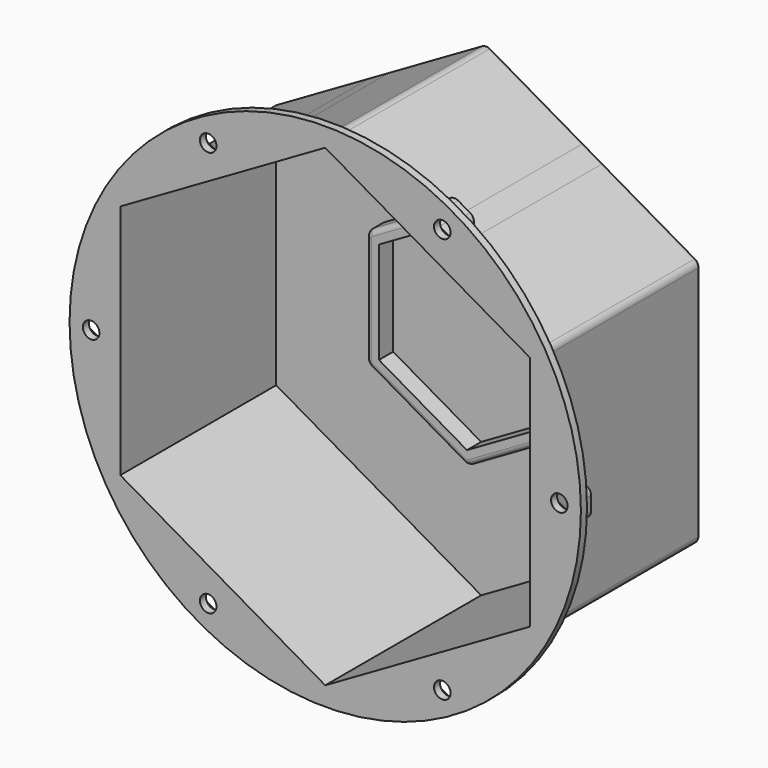
from build123d import *

# Parameters (mm, degrees)
F1_DEPTH = 3
F2_DEPTH = 10
F3_DEPTH = 79.8
F4_START = 76.8
F0_R     = 100.75
F4_DEPTH = 3
F5_R     = 2
F6_START = 73.8
F0_W     = 0.8
F0_H     = 8.8911941455
F6_DEPTH = 6
F7_D     = 6.5278
F9_R     = 1


with BuildPart() as f1:
    # F0 (on Front) → F1 (new body)
    with BuildSketch(Plane.XZ):
        Polygon((0, -93.2420684741), (80.75, -46.6210342371), (80.75, 46.6210342371), (0, 93.2420684741), (-80.75, 46.6210342371), (-80.75, -46.6210342371), align=None)
        with BuildLine():
            ThreePointArc((39.664, -21.1679702696), (39.2620762114, -22.6679702696), (38.164, -23.7660464809))
            Line((38.164, -23.7660464809), (1.5, -44.9340167505))
            ThreePointArc((1.5, -44.9340167505), (0, -45.3359405391), (-1.5, -44.9340167505))
            Line((-1.5, -44.9340167505), (-38.164, -23.7660464809))
            ThreePointArc((-38.164, -23.7660464809), (-39.2620762114, -22.6679702696), (-39.664, -21.1679702696))
            Line((-39.664, -21.1679702696), (-39.664, 21.1679702696))
            ThreePointArc((-39.664, 21.1679702696), (-39.2620762114, 22.6679702696), (-38.164, 23.7660464809))
            Line((-38.164, 23.7660464809), (-1.5, 44.9340167505))
            ThreePointArc((-1.5, 44.9340167505), (0, 45.3359405391), (1.5, 44.9340167505))
            Line((1.5, 44.9340167505), (38.164, 23.7660464809))
            ThreePointArc((38.164, 23.7660464809), (39.2620762114, 22.6679702696), (39.664, 21.1679702696))
            Line((39.664, 21.1679702696), (39.664, -21.1679702696))
        make_face(mode=Mode.SUBTRACT)
    extrude(amount=F1_DEPTH)



with BuildPart() as f1b:
    # F0 (on Front) → F1, piece 2 (new body)
    with BuildSketch(Plane.XZ):
        Polygon((0, -40.0265394624), (34.664, -20.0132697312), (34.664, 20.0132697312), (0, 40.0265394624), (-34.664, 20.0132697312), (-34.664, -20.0132697312), align=None)
    extrude(amount=F1_DEPTH)


with BuildPart() as f1_1:
    add(f1.part)

    add(f1b.part)  # F2 merges F1b
    # F0 (on Front) → F2 (join)
    with BuildSketch(Plane.XZ):
        with BuildLine():
            Line((1.5, -44.9340167505), (38.164, -23.7660464809))
            ThreePointArc((38.164, -23.7660464809), (39.2620762114, -22.6679702696), (39.664, -21.1679702696))
            Line((39.664, -21.1679702696), (39.664, 21.1679702696))
            ThreePointArc((39.664, 21.1679702696), (39.2620762114, 22.6679702696), (38.164, 23.7660464809))
            Line((38.164, 23.7660464809), (1.5, 44.9340167505))
            ThreePointArc((1.5, 44.9340167505), (0, 45.3359405391), (-1.5, 44.9340167505))
            Line((-1.5, 44.9340167505), (-38.164, 23.7660464809))
            ThreePointArc((-38.164, 23.7660464809), (-39.2620762114, 22.6679702696), (-39.664, 21.1679702696))
            Line((-39.664, 21.1679702696), (-39.664, -21.1679702696))
            ThreePointArc((-39.664, -21.1679702696), (-39.2620762114, -22.6679702696), (-38.164, -23.7660464809))
            Line((-38.164, -23.7660464809), (-1.5, -44.9340167505))
            ThreePointArc((-1.5, -44.9340167505), (0, -45.3359405391), (1.5, -44.9340167505))
        make_face()
        Polygon((34.664, 20.0132697312), (34.664, -20.0132697312), (0, -40.0265394624), (-34.664, -20.0132697312), (-34.664, 20.0132697312), (0, 40.0265394624), align=None, mode=Mode.SUBTRACT)
    extrude(amount=F2_DEPTH)

    # F0 (on Front) → F3 (join)
    with BuildSketch(Plane.XZ):
        with BuildLine():
            Line((83.75, 4.4455970728), (83.75, 46.6210342371))
            ThreePointArc((83.75, 46.6210342371), (83.3480762114, 48.1210342371), (82.25, 49.2191104484))
            Line((82.25, 49.2191104484), (45.725, 70.3068290306))
            Line((45.725, 70.3068290306), (38.025, 74.7524261033))
            Line((38.025, 74.7524261033), (1.5, 95.8401446855))
            ThreePointArc((1.5, 95.8401446855), (0, 96.2420684741), (-1.5, 95.8401446855))
            Line((-1.5, 95.8401446855), (-38.025, 74.7524261033))
            Line((-38.025, 74.7524261033), (-45.725, 70.3068290306))
            Line((-45.725, 70.3068290306), (-82.25, 49.2191104484))
            ThreePointArc((-82.25, 49.2191104484), (-83.3480762114, 48.1210342371), (-83.75, 46.6210342371))
            Line((-83.75, 46.6210342371), (-83.75, 4.1800841187))
            Line((-83.75, 4.1800841187), (-83.75, -3.9581455377))
            Line((-83.75, -3.9581455377), (-83.75, -46.6210342371))
            ThreePointArc((-83.75, -46.6210342371), (-83.3480762114, -48.1210342371), (-82.25, -49.2191104484))
            Line((-82.25, -49.2191104484), (-45.7833874392, -70.2731190268))
            Line((-45.7833874392, -70.2731190268), (-38.0831462279, -74.718855363))
            Line((-38.0831462279, -74.718855363), (-1.5, -95.8401446855))
            ThreePointArc((-1.5, -95.8401446855), (0, -96.2420684741), (1.5, -95.8401446855))
            Line((1.5, -95.8401446855), (38.1444882108, -74.6834395526))
            Line((38.1444882108, -74.6834395526), (45.8568599601, -70.2306996471))
            Line((45.8568599601, -70.2306996471), (82.25, -49.2191104484))
            ThreePointArc((82.25, -49.2191104484), (83.3480762114, -48.1210342371), (83.75, -46.6210342371))
            Line((83.75, -46.6210342371), (83.75, -4.4455970728))
            Line((83.75, -4.4455970728), (83.75, 4.4455970728))
        make_face()
        Polygon((80.75, 46.6210342371), (80.75, -46.6210342371), (0, -93.2420684741), (-80.75, -46.6210342371), (-80.75, 46.6210342371), (0, 93.2420684741), align=None, mode=Mode.SUBTRACT)
    extrude(amount=F3_DEPTH)

    # F0 (on Front) → F4 (join)
    with BuildSketch(Plane.XZ.offset(F4_START)):
        Circle(F0_R)
        with BuildLine():
            ThreePointArc((82.25, 49.2191104484), (83.3480762114, 48.1210342371), (83.75, 46.6210342371))
            Line((83.75, 46.6210342371), (83.75, 4.4455970728))
            Line((83.75, 4.4455970728), (84.55, 4.4455970728))
            Line((84.55, 4.4455970728), (90.75, 8.0251687417))
            ThreePointArc((90.75, 8.0251687417), (92.25, 8.4270925304), (93.75, 8.0251687417))
            Line((93.75, 8.0251687417), (98.45, 5.3116224765))
            ThreePointArc((98.45, 5.3116224765), (99.5480762114, 4.2135462652), (99.95, 2.7135462652))
            Line((99.95, 2.7135462652), (99.95, -2.7135462652))
            ThreePointArc((99.95, -2.7135462652), (99.5480762114, -4.2135462652), (98.45, -5.3116224765))
            Line((98.45, -5.3116224765), (93.75, -8.0251687417))
            ThreePointArc((93.75, -8.0251687417), (92.25, -8.4270925304), (90.75, -8.0251687417))
            Line((90.75, -8.0251687417), (84.55, -4.4455970728))
            Line((84.55, -4.4455970728), (83.75, -4.4455970728))
            Line((83.75, -4.4455970728), (83.75, -46.6210342371))
            ThreePointArc((83.75, -46.6210342371), (83.3480762114, -48.1210342371), (82.25, -49.2191104484))
            Line((82.25, -49.2191104484), (45.8568599601, -70.2306996471))
            Line((45.8568599601, -70.2306996471), (46.2835018729, -71.0010622594))
            Line((46.2835018729, -71.0010622594), (52.4187041842, -74.6905914884))
            ThreePointArc((52.4187041842, -74.6905914884), (53.4970306734, -75.8080684299), (53.8721503359, -77.3149950939))
            Line((53.8721503359, -77.3149950939), (53.7754024395, -82.7412252012))
            ThreePointArc((53.7754024395, -82.7412252012), (53.3468022646, -84.2338218051), (52.2293253232, -85.3121482943))
            Line((52.2293253232, -85.3121482943), (47.4816982552, -87.9414772119))
            ThreePointArc((47.4816982552, -87.9414772119), (45.9747715912, -88.3165968744), (44.4821749873, -87.8879966995))
            Line((44.4821749873, -87.8879966995), (39.8312958158, -85.0910955098))
            ThreePointArc((39.8312958158, -85.0910955098), (38.7529693266, -83.9736185684), (38.3778496641, -82.4666919043))
            Line((38.3778496641, -82.4666919043), (38.5054745488, -75.3086862308))
            Line((38.5054745488, -75.3086862308), (38.1444882108, -74.6834395526))
            Line((38.1444882108, -74.6834395526), (1.5, -95.8401446855))
            ThreePointArc((1.5, -95.8401446855), (0, -96.2420684741), (-1.5, -95.8401446855))
            Line((-1.5, -95.8401446855), (-38.0831462279, -74.718855363))
            Line((-38.0831462279, -74.718855363), (-38.460428699, -75.3844391559))
            Line((-38.460428699, -75.3844391559), (-38.4037631222, -82.5433582325))
            ThreePointArc((-38.4037631222, -82.5433582325), (-38.79380162, -84.0464925253), (-39.8831520139, -85.1532257593))
            Line((-39.8831520139, -85.1532257593), (-44.5615267041, -87.9038881506))
            ThreePointArc((-44.5615267041, -87.9038881506), (-46.0582984359, -88.3176720495), (-47.5614327287, -87.9276335517))
            Line((-47.5614327287, -87.9276335517), (-52.2827635819, -85.2513734172))
            ThreePointArc((-52.2827635819, -85.2513734172), (-53.3894968159, -84.1620230233), (-53.8032807148, -82.6652512916))
            Line((-53.8032807148, -82.6652512916), (-53.8462368778, -77.2383287657))
            ThreePointArc((-53.8462368778, -77.2383287657), (-53.45619838, -75.7351944729), (-52.3668479861, -74.628461239))
            Line((-52.3668479861, -74.628461239), (-46.1953749905, -70.9999278717))
            Line((-46.1953749905, -70.9999278717), (-45.7833874392, -70.2731190268))
            Line((-45.7833874392, -70.2731190268), (-82.25, -49.2191104484))
            ThreePointArc((-82.25, -49.2191104484), (-83.3480762114, -48.1210342371), (-83.75, -46.6210342371))
            Line((-83.75, -46.6210342371), (-83.75, -3.9581455377))
            Line((-83.75, -3.9581455377), (-85.1501733085, -3.9764250951))
            Line((-85.1501733085, -3.9764250951), (-90.6552047962, -7.2513100663))
            ThreePointArc((-90.6552047962, -7.2513100663), (-92.149830231, -7.6727807551), (-93.654949171, -7.290472361))
            Line((-93.654949171, -7.290472361), (-97.7324211262, -5.0067881935))
            ThreePointArc((-97.7324211262, -5.0067881935), (-98.844738167, -3.9231399422), (-99.2662088558, -2.4285145074))
            Line((-99.2662088558, -2.4285145074), (-99.3272163301, 2.2445218728))
            ThreePointArc((-99.3272163301, 2.2445218728), (-98.9449079361, 3.7496408129), (-97.8612596847, 4.8619578537))
            Line((-97.8612596847, 4.8619578537), (-93.8447952038, 7.2513100663))
            ThreePointArc((-93.8447952038, 7.2513100663), (-92.350169769, 7.6727807551), (-90.845050829, 7.290472361))
            Line((-90.845050829, 7.290472361), (-85.2564015056, 4.1604177297))
            Line((-85.2564015056, 4.1604177297), (-83.75, 4.1800841187))
            Line((-83.75, 4.1800841187), (-83.75, 46.6210342371))
            ThreePointArc((-83.75, 46.6210342371), (-83.3480762114, 48.1210342371), (-82.25, 49.2191104484))
            Line((-82.25, 49.2191104484), (-45.725, 70.3068290306))
            Line((-45.725, 70.3068290306), (-46.125, 70.9996493536))
            Line((-46.125, 70.9996493536), (-52.325, 74.5792210226))
            ThreePointArc((-52.325, 74.5792210226), (-53.4230762114, 75.6772972339), (-53.825, 77.1772972339))
            Line((-53.825, 77.1772972339), (-53.825, 82.6043897643))
            ThreePointArc((-53.825, 82.6043897643), (-53.4230762114, 84.1043897643), (-52.325, 85.2024659757))
            Line((-52.325, 85.2024659757), (-47.625, 87.9160122409))
            ThreePointArc((-47.625, 87.9160122409), (-46.125, 88.3179360295), (-44.625, 87.9160122409))
            Line((-44.625, 87.9160122409), (-39.925, 85.2024659757))
            ThreePointArc((-39.925, 85.2024659757), (-38.8269237886, 84.1043897643), (-38.425, 82.6043897643))
            Line((-38.425, 82.6043897643), (-38.425, 75.4452464264))
            Line((-38.425, 75.4452464264), (-38.025, 74.7524261033))
            Line((-38.025, 74.7524261033), (-1.5, 95.8401446855))
            ThreePointArc((-1.5, 95.8401446855), (0, 96.2420684741), (1.5, 95.8401446855))
            Line((1.5, 95.8401446855), (38.025, 74.7524261033))
            Line((38.025, 74.7524261033), (38.425, 75.4452464264))
            Line((38.425, 75.4452464264), (38.425, 82.6043897643))
            ThreePointArc((38.425, 82.6043897643), (38.8269237886, 84.1043897643), (39.925, 85.2024659757))
            Line((39.925, 85.2024659757), (44.625, 87.9160122409))
            ThreePointArc((44.625, 87.9160122409), (46.125, 88.3179360295), (47.625, 87.9160122409))
            Line((47.625, 87.9160122409), (52.325, 85.2024659757))
            ThreePointArc((52.325, 85.2024659757), (53.4230762114, 84.1043897643), (53.825, 82.6043897643))
            Line((53.825, 82.6043897643), (53.825, 77.1772972339))
            ThreePointArc((53.825, 77.1772972339), (53.4230762114, 75.6772972339), (52.325, 74.5792210226))
            Line((52.325, 74.5792210226), (46.125, 70.9996493536))
            Line((46.125, 70.9996493536), (45.725, 70.3068290306))
            Line((45.725, 70.3068290306), (82.25, 49.2191104484))
        make_face(mode=Mode.SUBTRACT)
    extrude(amount=F4_DEPTH)

    # F5
    f5_edges = [f1_1.edges().sort_by_distance(p)[0] for p in [
        (19.832, -10, 34.350032),
    ]]
    fillet(f5_edges, radius=F5_R)



with BuildPart() as f4:
    # F0 (on Front) → F4, piece 2 (new body)
    with BuildSketch(Plane.XZ.offset(F4_START)):
        Polygon((-46.2600288495, 73.3104356691), (-40.4937140766, 76.4837011702), (-40.3586852272, 83.0641090003), (-45.9899711505, 86.4712513292), (-51.7562859234, 83.297985828), (-51.8913147728, 76.717577998), align=None)
    extrude(amount=F4_DEPTH)


with BuildPart() as f4b:
    # F0 (on Front) → F4, piece 3 (new body)
    with BuildSketch(Plane.XZ.offset(F4_START)):
        Polygon((51.825, 76.5999469647), (51.825, 83.1817400335), (46.125, 86.4726365679), (40.425, 83.1817400335), (40.425, 76.5999469647), (46.125, 73.3090504304), align=None)
    extrude(amount=F4_DEPTH)


with BuildPart() as f4c:
    # F0 (on Front) → F4, piece 4 (new body)
    with BuildSketch(Plane.XZ.offset(F4_START)):
        Polygon((92.25, -6.5817930688), (97.95, -3.2908965344), (97.95, 3.2908965344), (92.25, 6.5817930688), (86.55, 3.2908965344), (86.55, -3.2908965344), align=None)
    extrude(amount=F4_DEPTH)


with BuildPart() as f4d:
    # F0 (on Front) → F4, piece 5 (new body)
    with BuildSketch(Plane.XZ.offset(F4_START)):
        Polygon((46.0076674448, -86.4715906506), (51.7654279314, -83.2828300484), (51.8827604867, -76.7020828969), (46.2423325552, -73.3100963477), (40.4845720686, -76.4988569499), (40.3672395133, -83.0796041013), align=None)
    extrude(amount=F4_DEPTH)


with BuildPart() as f4e:
    # F0 (on Front) → F4, piece 6 (new body)
    with BuildSketch(Plane.XZ.offset(F4_START)):
        Polygon((-46.0729042278, -86.4724303921), (-40.3991306673, -83.1365206835), (-40.4512264395, -76.5549337905), (-46.1770957722, -73.3092566061), (-51.8508693327, -76.6451663147), (-51.7987735605, -83.2267532078), align=None)
    extrude(amount=F4_DEPTH)


with BuildPart() as f4f:
    # F0 (on Front) → F4, piece 7 (new body)
    with BuildSketch(Plane.XZ.offset(F4_START)):
        Polygon((-92.1640806267, -6.5812322449), (-86.5075260011, -3.2162077625), (-86.5934453744, 3.3650244824), (-92.3359193733, 6.5812322449), (-97.9924739989, 3.2162077625), (-97.9065546256, -3.3650244824), align=None)
    extrude(amount=F4_DEPTH)


with BuildPart() as f1_2:
    add(f1_1.part)

    add(f4.part)  # F6 merges F4

    add(f4b.part)  # F6 merges F4b

    add(f4c.part)  # F6 merges F4c

    add(f4d.part)  # F6 merges F4d

    add(f4e.part)  # F6 merges F4e

    add(f4f.part)  # F6 merges F4f
    # F0 (on Front) → F6 (join)
    with BuildSketch(Plane.XZ.offset(F6_START)):
        with BuildLine():
            Line((-46.125, 70.9996493536), (-38.425, 75.4452464264))
            Line((-38.425, 75.4452464264), (-38.425, 82.6043897643))
            ThreePointArc((-38.425, 82.6043897643), (-38.8269237886, 84.1043897643), (-39.925, 85.2024659757))
            Line((-39.925, 85.2024659757), (-44.625, 87.9160122409))
            ThreePointArc((-44.625, 87.9160122409), (-46.125, 88.3179360295), (-47.625, 87.9160122409))
            Line((-47.625, 87.9160122409), (-52.325, 85.2024659757))
            ThreePointArc((-52.325, 85.2024659757), (-53.4230762114, 84.1043897643), (-53.825, 82.6043897643))
            Line((-53.825, 82.6043897643), (-53.825, 77.1772972339))
            ThreePointArc((-53.825, 77.1772972339), (-53.4230762114, 75.6772972339), (-52.325, 74.5792210226))
            Line((-52.325, 74.5792210226), (-46.125, 70.9996493536))
        make_face()
        Polygon((-40.3586852272, 83.0641090003), (-40.4937140766, 76.4837011702), (-46.2600288495, 73.3104356691), (-51.8913147728, 76.717577998), (-51.7562859234, 83.297985828), (-45.9899711505, 86.4712513292), align=None, mode=Mode.SUBTRACT)
        Polygon((-45.725, 70.3068290306), (-38.025, 74.7524261033), (-38.425, 75.4452464264), (-46.125, 70.9996493536), align=None)
        with BuildLine():
            Line((38.425, 75.4452464264), (46.125, 70.9996493536))
            Line((46.125, 70.9996493536), (52.325, 74.5792210226))
            ThreePointArc((52.325, 74.5792210226), (53.4230762114, 75.6772972339), (53.825, 77.1772972339))
            Line((53.825, 77.1772972339), (53.825, 82.6043897643))
            ThreePointArc((53.825, 82.6043897643), (53.4230762114, 84.1043897643), (52.325, 85.2024659757))
            Line((52.325, 85.2024659757), (47.625, 87.9160122409))
            ThreePointArc((47.625, 87.9160122409), (46.125, 88.3179360295), (44.625, 87.9160122409))
            Line((44.625, 87.9160122409), (39.925, 85.2024659757))
            ThreePointArc((39.925, 85.2024659757), (38.8269237886, 84.1043897643), (38.425, 82.6043897643))
            Line((38.425, 82.6043897643), (38.425, 75.4452464264))
        make_face()
        Polygon((46.125, 86.4726365679), (51.825, 83.1817400335), (51.825, 76.5999469647), (46.125, 73.3090504304), (40.425, 76.5999469647), (40.425, 83.1817400335), align=None, mode=Mode.SUBTRACT)
        Polygon((38.025, 74.7524261033), (45.725, 70.3068290306), (46.125, 70.9996493536), (38.425, 75.4452464264), align=None)
        with BuildLine():
            Line((90.75, 8.0251687417), (84.55, 4.4455970728))
            Line((84.55, 4.4455970728), (84.55, -4.4455970728))
            Line((84.55, -4.4455970728), (90.75, -8.0251687417))
            ThreePointArc((90.75, -8.0251687417), (92.25, -8.4270925304), (93.75, -8.0251687417))
            Line((93.75, -8.0251687417), (98.45, -5.3116224765))
            ThreePointArc((98.45, -5.3116224765), (99.5480762114, -4.2135462652), (99.95, -2.7135462652))
            Line((99.95, -2.7135462652), (99.95, 2.7135462652))
            ThreePointArc((99.95, 2.7135462652), (99.5480762114, 4.2135462652), (98.45, 5.3116224765))
            Line((98.45, 5.3116224765), (93.75, 8.0251687417))
            ThreePointArc((93.75, 8.0251687417), (92.25, 8.4270925304), (90.75, 8.0251687417))
        make_face()
        Polygon((97.95, 3.2908965344), (97.95, -3.2908965344), (92.25, -6.5817930688), (86.55, -3.2908965344), (86.55, 3.2908965344), (92.25, 6.5817930688), align=None, mode=Mode.SUBTRACT)
        with Locations((84.15, 0)):
            Rectangle(F0_W, F0_H)
        with BuildLine():
            Line((52.4187041842, -74.6905914884), (46.2835018729, -71.0010622594))
            Line((46.2835018729, -71.0010622594), (38.5054745488, -75.3086862308))
            Line((38.5054745488, -75.3086862308), (38.3778496641, -82.4666919043))
            ThreePointArc((38.3778496641, -82.4666919043), (38.7529693266, -83.9736185684), (39.8312958158, -85.0910955098))
            Line((39.8312958158, -85.0910955098), (44.4821749873, -87.8879966995))
            ThreePointArc((44.4821749873, -87.8879966995), (45.9747715912, -88.3165968744), (47.4816982552, -87.9414772119))
            Line((47.4816982552, -87.9414772119), (52.2293253232, -85.3121482943))
            ThreePointArc((52.2293253232, -85.3121482943), (53.3468022646, -84.2338218051), (53.7754024395, -82.7412252012))
            Line((53.7754024395, -82.7412252012), (53.8721503359, -77.3149950939))
            ThreePointArc((53.8721503359, -77.3149950939), (53.4970306734, -75.8080684299), (52.4187041842, -74.6905914884))
        make_face()
        Polygon((51.8827604867, -76.7020828969), (51.7654279314, -83.2828300484), (46.0076674448, -86.4715906506), (40.3672395133, -83.0796041013), (40.4845720686, -76.4988569499), (46.2423325552, -73.3100963477), align=None, mode=Mode.SUBTRACT)
        Polygon((46.2835018729, -71.0010622594), (45.8568599601, -70.2306996471), (38.1444882108, -74.6834395526), (38.5054745488, -75.3086862308), align=None)
        with BuildLine():
            Line((-38.4037631222, -82.5433582325), (-38.460428699, -75.3844391559))
            Line((-38.460428699, -75.3844391559), (-46.1953749905, -70.9999278717))
            Line((-46.1953749905, -70.9999278717), (-52.3668479861, -74.628461239))
            ThreePointArc((-52.3668479861, -74.628461239), (-53.45619838, -75.7351944729), (-53.8462368778, -77.2383287657))
            Line((-53.8462368778, -77.2383287657), (-53.8032807148, -82.6652512916))
            ThreePointArc((-53.8032807148, -82.6652512916), (-53.3894968159, -84.1620230233), (-52.2827635819, -85.2513734172))
            Line((-52.2827635819, -85.2513734172), (-47.5614327287, -87.9276335517))
            ThreePointArc((-47.5614327287, -87.9276335517), (-46.0582984359, -88.3176720495), (-44.5615267041, -87.9038881506))
            Line((-44.5615267041, -87.9038881506), (-39.8831520139, -85.1532257593))
            ThreePointArc((-39.8831520139, -85.1532257593), (-38.79380162, -84.0464925253), (-38.4037631222, -82.5433582325))
        make_face()
        Polygon((-40.4512264395, -76.5549337905), (-40.3991306673, -83.1365206835), (-46.0729042278, -86.4724303921), (-51.7987735605, -83.2267532078), (-51.8508693327, -76.6451663147), (-46.1770957722, -73.3092566061), align=None, mode=Mode.SUBTRACT)
        Polygon((-38.460428699, -75.3844391559), (-38.0831462279, -74.718855363), (-45.7833874392, -70.2731190268), (-46.1953749905, -70.9999278717), align=None)
        with BuildLine():
            Line((-85.1501733085, -3.9764250951), (-85.2564015056, 4.1604177297))
            Line((-85.2564015056, 4.1604177297), (-90.845050829, 7.290472361))
            ThreePointArc((-90.845050829, 7.290472361), (-92.350169769, 7.6727807551), (-93.8447952038, 7.2513100663))
            Line((-93.8447952038, 7.2513100663), (-97.8612596847, 4.8619578537))
            ThreePointArc((-97.8612596847, 4.8619578537), (-98.9449079361, 3.7496408129), (-99.3272163301, 2.2445218728))
            Line((-99.3272163301, 2.2445218728), (-99.2662088558, -2.4285145074))
            ThreePointArc((-99.2662088558, -2.4285145074), (-98.844738167, -3.9231399422), (-97.7324211262, -5.0067881935))
            Line((-97.7324211262, -5.0067881935), (-93.654949171, -7.290472361))
            ThreePointArc((-93.654949171, -7.290472361), (-92.149830231, -7.6727807551), (-90.6552047962, -7.2513100663))
            Line((-90.6552047962, -7.2513100663), (-85.1501733085, -3.9764250951))
        make_face()
        Polygon((-86.5934453744, 3.3650244824), (-86.5075260011, -3.2162077625), (-92.1640806267, -6.5812322449), (-97.9065546256, -3.3650244824), (-97.9924739989, 3.2162077625), (-92.3359193733, 6.5812322449), align=None, mode=Mode.SUBTRACT)
        Polygon((-83.75, -3.9581455377), (-83.75, 4.1800841187), (-85.2564015056, 4.1604177297), (-85.1501733085, -3.9764250951), align=None)
    extrude(amount=F6_DEPTH)

    # F7 (through all)
    with Locations(Plane(origin=(0, 0, 0), x_dir=(1, 0, 0), z_dir=(0, 1, 0))):
        with Locations((-46.125, -79.8908434991), (46.125, -79.8908434991), (92.25, 0), (46.125, 79.8908434991), (-46.125, 79.8908434991), (-92.25, 0)):
            Hole(F7_D / 2)

    # F8: union 

    # F9
    f9_edges = [f1_2.edges().sort_by_distance(p)[0] for p in [
        (83.348076, 0, -48.121034),
        (83.75, 0, 0),
        (83.348076, 0, 48.121034),
        (41.875, 0, 72.529628),
        (0, 0, 96.242068),
        (-41.875, 0, 72.529628),
        (-83.348076, 0, 48.121034),
        (-83.75, 0, 0),
        (-83.348076, 0, -48.121034),
        (-41.875, 0, -72.529628),
        (0, 0, -96.242068),
        (41.875, 0, -72.529628),
    ]]
    fillet(f9_edges, radius=F9_R)


solid = f1_2.part
